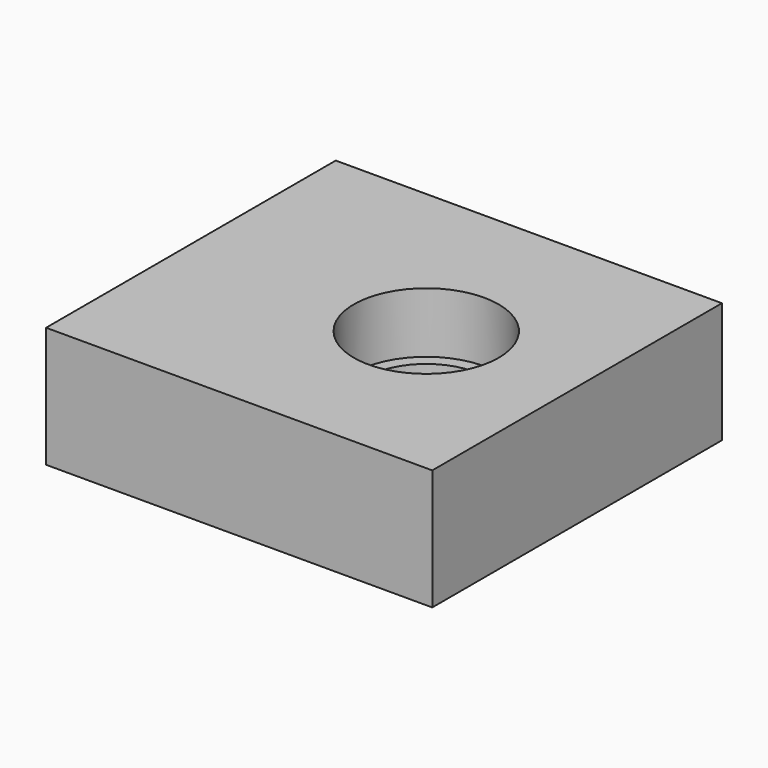
from build123d import *

# Parameters (mm, degrees)
CYLINDER_R      = 11.5
CYLINDER_DEPTH  = 5
SKETCH_R        = 5
POCKET_DEPTH    = 5.001
BOX_W           = 32
BOX_H           = 30
BOX_DEPTH       = 10
SKETCH001_R     = 11.5
POCKET001_DEPTH = 5
SKETCH002_R     = 6
POCKET002_DEPTH = 10.001


with BuildPart() as pocket:
    # Cylinder → Cylinder (new body)
    with BuildSketch(Plane.XY):
        Circle(CYLINDER_R)
    extrude(amount=CYLINDER_DEPTH)

    # Sketch → Pocket (cut, through all)
    with BuildSketch(Plane.XY.offset(5)):
        Circle(SKETCH_R)
    extrude(amount=-POCKET_DEPTH, mode=Mode.SUBTRACT)


with BuildPart() as pocket002:
    # Box → Box (new body)
    with BuildSketch(Plane(origin=(-19.5, -15, 0), x_dir=(1, 0, 0), z_dir=(0, 0, 1))):
        with Locations((16, 15)):
            Rectangle(BOX_W, BOX_H)
    extrude(amount=BOX_DEPTH)

    # Sketch001 → Pocket001 (cut)
    with BuildSketch(Plane(origin=(-19.5, -15, 0), x_dir=(1, 0, 0), z_dir=(0, 0, -1))):
        with Locations((19.5, -15)):
            Circle(SKETCH001_R)
    extrude(amount=-POCKET001_DEPTH, mode=Mode.SUBTRACT)

    # Sketch002 → Pocket002 (cut, through all)
    with BuildSketch(Plane(origin=(-19.5, -15, 0), x_dir=(1, 0, 0), z_dir=(0, 0, -1))):
        with Locations((19.5, -15)):
            Circle(SKETCH002_R)
    extrude(amount=-POCKET002_DEPTH, mode=Mode.SUBTRACT)


solid = Compound([pocket.part, pocket002.part])
